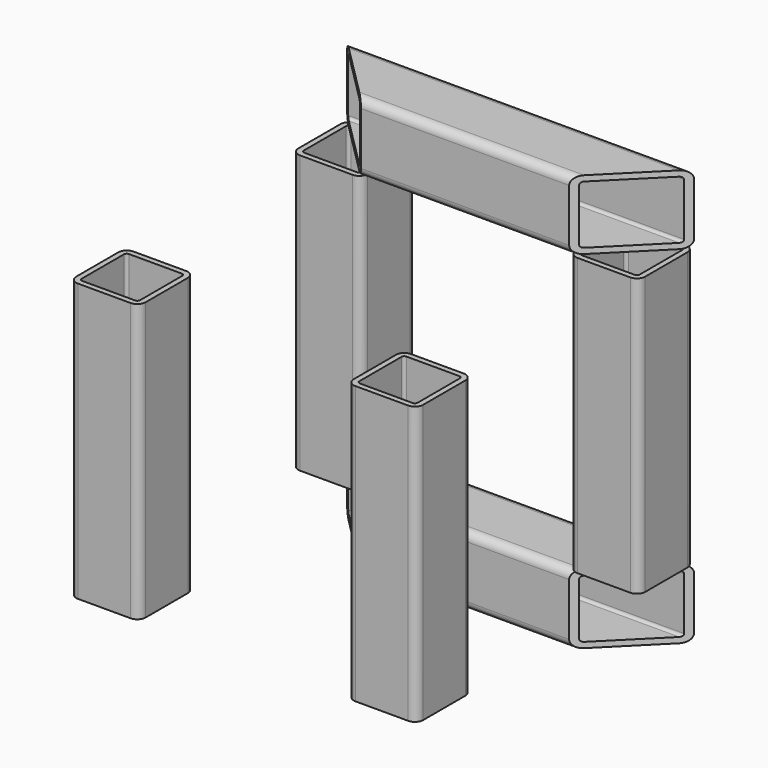
from build123d import *

# Parameters (mm, degrees)
F1_DEPTH  = 100
F6_DEPTH  = 75
F8_DEPTH  = 25
F10_DEPTH = 25


with BuildPart() as f1:
    # F0 (on Top) → F1 (new body)
    with BuildSketch(Plane.XY):
        with BuildLine():
            Line((-40.5, 62.5), (-59.5, 62.5))
            ThreePointArc((-59.5, 62.5), (-61.62132, 61.62132), (-62.5, 59.5))
            Line((-62.5, 59.5), (-62.5, 40.5))
            ThreePointArc((-62.5, 40.5), (-61.62132, 38.37868), (-59.5, 37.5))
            Line((-59.5, 37.5), (-40.5, 37.5))
            ThreePointArc((-40.5, 37.5), (-38.37868, 38.37868), (-37.5, 40.5))
            Line((-37.5, 40.5), (-37.5, 59.5))
            ThreePointArc((-37.5, 59.5), (-38.37868, 61.62132), (-40.5, 62.5))
        make_face()
        with BuildLine():
            ThreePointArc((-60.5, 59.5), (-60.207107, 60.207107), (-59.5, 60.5))
            Line((-59.5, 60.5), (-40.5, 60.5))
            ThreePointArc((-40.5, 60.5), (-39.792893, 60.207107), (-39.5, 59.5))
            Line((-39.5, 59.5), (-39.5, 40.5))
            ThreePointArc((-39.5, 40.5), (-39.792893, 39.792893), (-40.5, 39.5))
            Line((-40.5, 39.5), (-59.5, 39.5))
            ThreePointArc((-59.5, 39.5), (-60.207107, 39.792893), (-60.5, 40.5))
            Line((-60.5, 40.5), (-60.5, 59.5))
        make_face(mode=Mode.SUBTRACT)
    extrude(amount=F1_DEPTH)


with BuildPart() as f2_1:
    # F2: copy of F1
    add(f1.part.moved(Location((100, 0, 0))))


with BuildPart() as f3_1:
    # F3: copy of F1
    add(f1.part.moved(Location((0, -100, 0))))


with BuildPart() as f4_1:
    # F4: copy of F3_1
    add(f3_1.part.moved(Location((100, 0, 0))))


with BuildPart() as f6:
    # F5 (on Right) → F6 (new body, symmetric)
    with BuildSketch(Plane.YZ):
        with BuildLine():
            Line((59.5, 125), (40.5, 125))
            ThreePointArc((40.5, 125), (38.37868, 124.12132), (37.5, 122))
            Line((37.5, 122), (37.5, 103))
            ThreePointArc((37.5, 103), (38.37868, 100.87868), (40.5, 100))
            Line((40.5, 100), (59.5, 100))
            ThreePointArc((59.5, 100), (61.62132, 100.87868), (62.5, 103))
            Line((62.5, 103), (62.5, 122))
            ThreePointArc((62.5, 122), (61.62132, 124.12132), (59.5, 125))
        make_face()
        with BuildLine():
            ThreePointArc((40.5, 102), (39.792893, 102.292893), (39.5, 103))
            Line((39.5, 103), (39.5, 122))
            ThreePointArc((39.5, 122), (39.792893, 122.707107), (40.5, 123))
            Line((40.5, 123), (59.5, 123))
            ThreePointArc((59.5, 123), (60.207107, 122.707107), (60.5, 122))
            Line((60.5, 122), (60.5, 103))
            ThreePointArc((60.5, 103), (60.207107, 102.292893), (59.5, 102))
            Line((59.5, 102), (40.5, 102))
        make_face(mode=Mode.SUBTRACT)
    extrude(amount=F6_DEPTH, both=True)

    # F7 (on face) → F8 (cut)
    with BuildSketch(Plane.XY.offset(125)):
        Polygon((-102.252155, 0), (0, 0), (-102.252155, 102.252155), align=None)
    extrude(amount=-F8_DEPTH, mode=Mode.SUBTRACT)

    # F9 (on face) → F10 (cut)
    with BuildSketch(Plane.XY.offset(125)):
        Polygon((99.521408, 99.521408), (0, 0), (99.521408, 0), align=None)
    extrude(amount=-F10_DEPTH, mode=Mode.SUBTRACT)


with BuildPart() as f11_1:
    # F11: copy of F6
    add(f6.part.moved(Location((0, 0, -125))))


solid = Compound([f1.part, f2_1.part, f3_1.part, f4_1.part, f6.part, f11_1.part])
